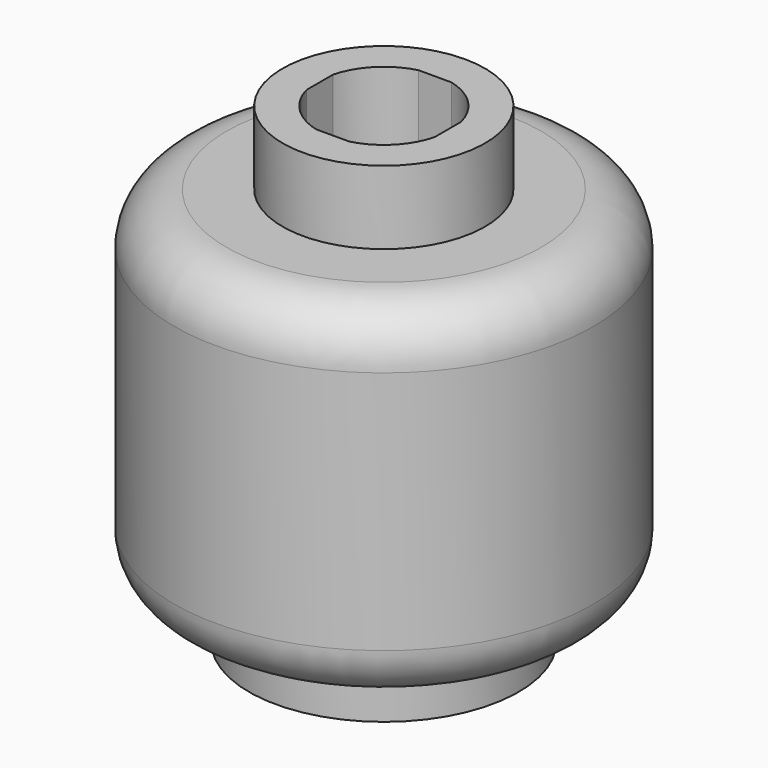
from build123d import *

# Parameters (mm, degrees)
F2_W     = 0.998062
F2_H     = 0.0508
F2_W_2   = 0.0508
F2_H_2   = 0.998062
F3_DEPTH = 8.636
F4_W     = 0.8
F4_H     = 0.0508
F4_W_2   = 0.0508
F4_H_2   = 0.8
F5_DEPTH = 1.9304


with BuildPart() as f1:
    # F0 (on Right) → F1 (revolve)
    with BuildSketch(Plane.YZ):
        with BuildLine():
            Line((2.4765, 8.636), (2.4765, 0))
            Line((2.4765, 0), (3.2639, 0))
            Line((3.2639, 0), (3.2639, 1.1938))
            Line((3.2639, 1.1938), (3.81, 1.1938))
            ThreePointArc((3.81, 1.1938), (4.708026, 1.565774), (5.08, 2.4638))
            Line((5.08, 2.4638), (5.08, 8.382))
            ThreePointArc((5.08, 8.382), (4.708026, 9.280026), (3.81, 9.652))
            Line((3.81, 9.652), (2.4511, 9.652))
            Line((2.4511, 9.652), (2.4511, 11.43))
            Line((2.4511, 11.43), (1.6002, 11.43))
            Line((1.6002, 11.43), (1.6002, 9.4996))
            Line((1.6002, 9.4996), (0, 9.4996))
            Line((0, 9.4996), (0, 8.636))
            Line((0, 8.636), (2.4765, 8.636))
        make_face()
    revolve(axis=Axis((0, 0, 4.318), (0, 0, -1)))

    # F2 (on face) → F3 (join, through all)
    with BuildSketch(Plane(origin=(0, 0, 0), x_dir=(1, 0, 0), z_dir=(0, 0, -1))):
        with Locations((0, 2.4511)):
            Rectangle(F2_W, F2_H)
        with Locations((2.4511, 0)):
            Rectangle(F2_W_2, F2_H_2)
        with Locations((0, -2.4511)):
            Rectangle(F2_W, F2_H)
        with Locations((-2.4511, 0)):
            Rectangle(F2_W_2, F2_H_2)
    extrude(amount=-F3_DEPTH)

    # F4 (on face) → F5 (join, through all)
    with BuildSketch(Plane.XY.offset(11.43)):
        with Locations((0, -1.5748)):
            Rectangle(F4_W, F4_H)
        with Locations((-1.5748, 0)):
            Rectangle(F4_W_2, F4_H_2)
        with Locations((0, 1.5748)):
            Rectangle(F4_W, F4_H)
        with Locations((1.5748, 0)):
            Rectangle(F4_W_2, F4_H_2)
    extrude(amount=-F5_DEPTH)


solid = f1.part
